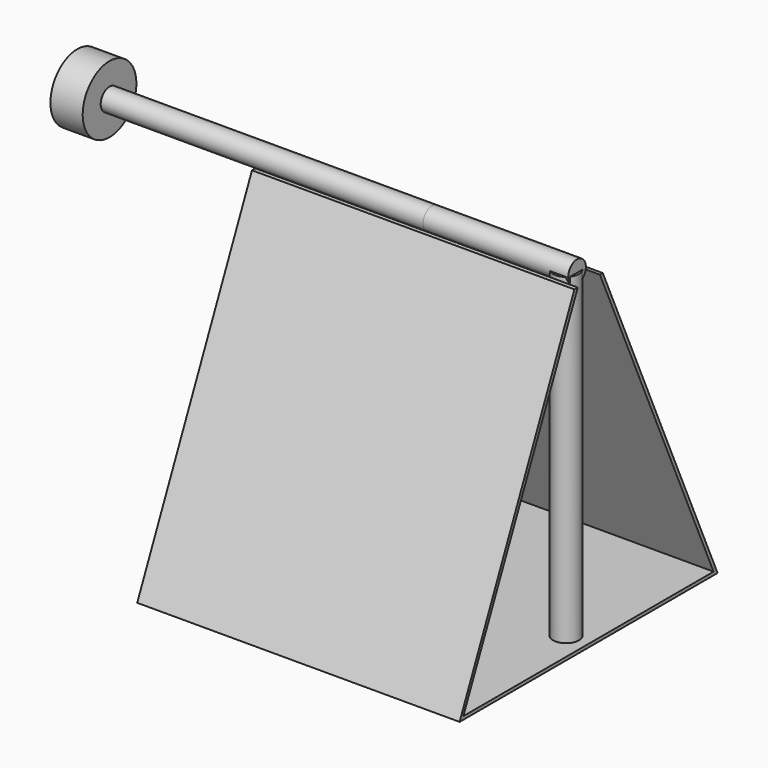
from build123d import *

# Parameters (mm, degrees)
F0_W      = 100
F0_H      = 100
F1_DEPTH  = 100
F3_DEPTH  = 100.001
F5_DEPTH  = 100.001
F6_R      = 4
F7_DEPTH  = 100
F8_R      = 3.422
F9_DEPTH  = 100
F9_FACE_R = 3.422
F10_DEPTH = 45
F11_R     = 10.410999
F11_R_2   = 3.422
F12_DEPTH = 10


with BuildPart() as f1:
    # F0 (on Front) → F1 (new body)
    with BuildSketch(Plane.XZ):
        with Locations((-1.236264, 50)):
            Rectangle(F0_W, F0_H)
    extrude(amount=-F1_DEPTH)

    # F2 (on face) → F3 (cut, through all)
    with BuildSketch(Plane.YZ.offset(48.763736)):
        Polygon((0, 100), (0, 0), (44.5, 100), align=None)
        Polygon((55.5, 100), (100, 0), (100, 100), align=None)
    extrude(amount=-F3_DEPTH, mode=Mode.SUBTRACT)

    # F4 (on face) → F5 (cut, through all)
    with BuildSketch(Plane.YZ.offset(48.763736)):
        Polygon((1.42873, 1), (4.827431, 1), (98.460457, 1), (54.405457, 100), (45.812438, 100), align=None)
    extrude(amount=-F5_DEPTH, mode=Mode.SUBTRACT)

    # F6 (on face) → F7 (join)
    with BuildSketch(Plane.XY.offset(1)):
        with Locations((41.806433, 49.944593)):
            Circle(F6_R)
    extrude(amount=F7_DEPTH)


with BuildPart() as f9:
    # F8 (on Right) → F9 (new body)
    with BuildSketch(Plane.YZ):
        with Locations((50.224461, 101.245329)):
            Circle(F8_R)
    extrude(amount=-F9_DEPTH)


with BuildPart() as f10:
    # F9_face (on face) → F10 (new body)
    with BuildSketch(Plane(origin=(0, 50.224461, 101.245329), x_dir=(0, 1, 0), z_dir=(1, 0, 0))):
        Circle(F9_FACE_R)
    extrude(amount=F10_DEPTH)


with BuildPart() as f12:
    # F11 (on face) → F12 (new body)
    with BuildSketch(Plane(origin=(-100, 0, 0), x_dir=(0, -1, 0), z_dir=(-1, 0, 0))):
        with Locations((-50.224461, 101.245329)):
            Circle(F11_R)
        with Locations((-50.224461, 101.245329)):
            Circle(F11_R_2, mode=Mode.SUBTRACT)
    extrude(amount=F12_DEPTH)


solid = Compound([f1.part, f9.part, f10.part, f12.part])
